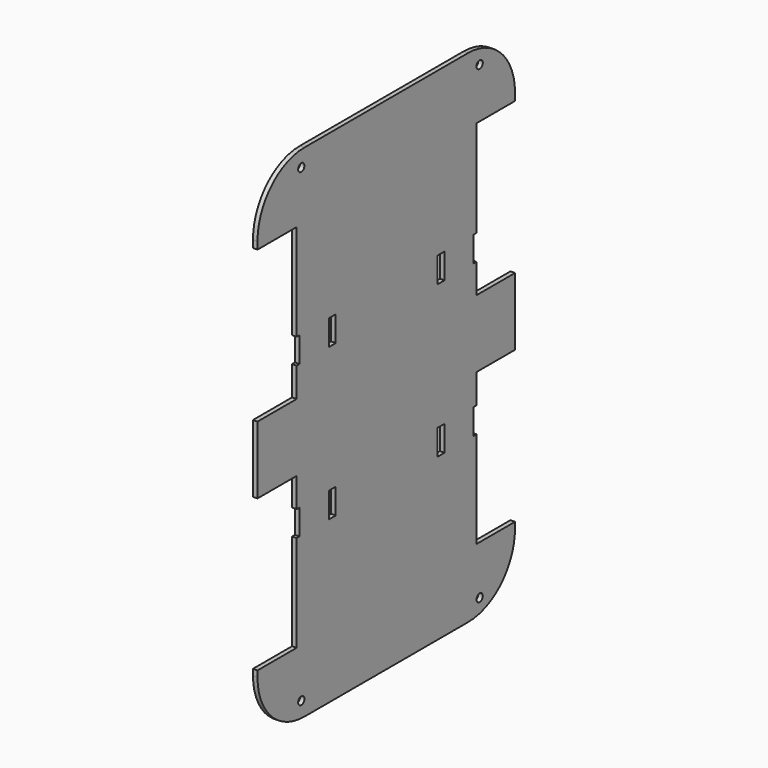
from build123d import *

# Parameters (mm, degrees)
CYLINDER002_R           = 2
CYLINDER002_DEPTH       = 10
CYLINDER002_PITCH_ANGLE = 90
CYLINDER003_R           = 2
CYLINDER003_DEPTH       = 10
CYLINDER003_PITCH_ANGLE = 90
CYLINDER001_R           = 2
CYLINDER001_DEPTH       = 10
CYLINDER001_PITCH_ANGLE = 90
CYLINDER_R              = 2
CYLINDER_DEPTH          = 10
CYLINDER_PITCH_ANGLE    = 90
BOX012_W                = 10
BOX012_H                = 4.3
BOX012_DEPTH            = 13
BOX011_W                = 10
BOX011_H                = 1.8
BOX011_DEPTH            = 13
BOX007_W                = 10
BOX007_H                = 1.8
BOX007_DEPTH            = 13
BOX009_W                = 10
BOX009_H                = 4.3
BOX009_DEPTH            = 13
BOX008_W                = 10
BOX008_H                = 4.3
BOX008_DEPTH            = 13
BOX010_W                = 10
BOX010_H                = 1.8
BOX010_DEPTH            = 13
BOX006_W                = 10
BOX006_H                = 4.3
BOX006_DEPTH            = 13
BOX005_W                = 10
BOX005_H                = 1.8
BOX005_DEPTH            = 13
BOX002_W                = 10
BOX002_H                = 25
BOX002_DEPTH            = 77.4
BOX004_W                = 10
BOX004_H                = 25
BOX004_DEPTH            = 77.4
BOX001_W                = 10
BOX001_H                = 25
BOX001_DEPTH            = 77.4
BOX003_W                = 10
BOX003_H                = 25
BOX003_DEPTH            = 77.4
BOX_W                   = 2.3
BOX_H                   = 164.6
BOX_DEPTH               = 256.2
FILLET_R                = 30
FILLET001_R             = 30
FILLET002_R             = 30
FILLET003_R             = 30


with BuildPart() as cilindro002:
    # Cylinder002 → Cylinder002 (new body)
    with BuildSketch(Plane.XY):
        Circle(CYLINDER002_R)
    extrude(amount=CYLINDER002_DEPTH)


with BuildPart() as cilindro002_1:
    # Cylinder002 pitch: moved
    add(cilindro002.part.rotate(Axis((0, 0, 0), (0, 1, 0)), CYLINDER002_PITCH_ANGLE))


with BuildPart() as cilindro002_2:
    # Cylinder002 placement: moved
    add(cilindro002_1.part.moved(Location((-2, 28, 248))))


with BuildPart() as cilindro003:
    # Cylinder003 → Cylinder003 (new body)
    with BuildSketch(Plane.XY):
        Circle(CYLINDER003_R)
    extrude(amount=CYLINDER003_DEPTH)


with BuildPart() as cilindro003_1:
    # Cylinder003 pitch: moved
    add(cilindro003.part.rotate(Axis((0, 0, 0), (0, 1, 0)), CYLINDER003_PITCH_ANGLE))


with BuildPart() as cilindro003_2:
    # Cylinder003 placement: moved
    add(cilindro003_1.part.moved(Location((-2, 142, 248))))


with BuildPart() as cilindro001:
    # Cylinder001 → Cylinder001 (new body)
    with BuildSketch(Plane.XY):
        Circle(CYLINDER001_R)
    extrude(amount=CYLINDER001_DEPTH)


with BuildPart() as cilindro001_1:
    # Cylinder001 pitch: moved
    add(cilindro001.part.rotate(Axis((0, 0, 0), (0, 1, 0)), CYLINDER001_PITCH_ANGLE))


with BuildPart() as cilindro001_2:
    # Cylinder001 placement: moved
    add(cilindro001_1.part.moved(Location((-1, 142, 8))))


with BuildPart() as cilindro:
    # Cylinder → Cylinder (new body)
    with BuildSketch(Plane.XY):
        Circle(CYLINDER_R)
    extrude(amount=CYLINDER_DEPTH)


with BuildPart() as cilindro_1:
    # Cylinder pitch: moved
    add(cilindro.part.rotate(Axis((0, 0, 0), (0, 1, 0)), CYLINDER_PITCH_ANGLE))


with BuildPart() as cilindro_2:
    # Cylinder placement: moved
    add(cilindro_1.part.moved(Location((-2, 28, 8))))


with BuildPart() as cubo012:
    # Box012 → Box012 (new body)
    with BuildSketch(Plane(origin=(-2, 115.2, 160), x_dir=(1, 0, 0), z_dir=(0, 0, 1))):
        with Locations((5, 2.15)):
            Rectangle(BOX012_W, BOX012_H)
    extrude(amount=BOX012_DEPTH)


with BuildPart() as cubo011:
    # Box011 → Box011 (new body)
    with BuildSketch(Plane(origin=(-2, 138.2, 160), x_dir=(1, 0, 0), z_dir=(0, 0, 1))):
        with Locations((5, 0.9)):
            Rectangle(BOX011_W, BOX011_H)
    extrude(amount=BOX011_DEPTH)


with BuildPart() as cubo007:
    # Box007 → Box007 (new body)
    with BuildSketch(Plane(origin=(-2, 138.2, 82.4), x_dir=(1, 0, 0), z_dir=(0, 0, 1))):
        with Locations((5, 0.9)):
            Rectangle(BOX007_W, BOX007_H)
    extrude(amount=BOX007_DEPTH)


with BuildPart() as cubo009:
    # Box009 → Box009 (new body)
    with BuildSketch(Plane(origin=(-2, 115.2, 82.4), x_dir=(1, 0, 0), z_dir=(0, 0, 1))):
        with Locations((5, 2.15)):
            Rectangle(BOX009_W, BOX009_H)
    extrude(amount=BOX009_DEPTH)


with BuildPart() as cubo008:
    # Box008 → Box008 (new body)
    with BuildSketch(Plane(origin=(0, 45.7, 160), x_dir=(1, 0, 0), z_dir=(0, 0, 1))):
        with Locations((5, 2.15)):
            Rectangle(BOX008_W, BOX008_H)
    extrude(amount=BOX008_DEPTH)


with BuildPart() as cubo010:
    # Box010 → Box010 (new body)
    with BuildSketch(Plane(origin=(-2, 25, 160), x_dir=(1, 0, 0), z_dir=(0, 0, 1))):
        with Locations((5, 0.9)):
            Rectangle(BOX010_W, BOX010_H)
    extrude(amount=BOX010_DEPTH)


with BuildPart() as cubo006:
    # Box006 → Box006 (new body)
    with BuildSketch(Plane(origin=(0, 45.7, 82.4), x_dir=(1, 0, 0), z_dir=(0, 0, 1))):
        with Locations((5, 2.15)):
            Rectangle(BOX006_W, BOX006_H)
    extrude(amount=BOX006_DEPTH)


with BuildPart() as cubo005:
    # Box005 → Box005 (new body)
    with BuildSketch(Plane(origin=(-2, 25, 82.4), x_dir=(1, 0, 0), z_dir=(0, 0, 1))):
        with Locations((5, 0.9)):
            Rectangle(BOX005_W, BOX005_H)
    extrude(amount=BOX005_DEPTH)


with BuildPart() as cubo002:
    # Box002 → Box002 (new body)
    with BuildSketch(Plane.XY.offset(145)):
        with Locations((5, 12.5)):
            Rectangle(BOX002_W, BOX002_H)
    extrude(amount=BOX002_DEPTH)


with BuildPart() as cubo004:
    # Box004 → Box004 (new body)
    with BuildSketch(Plane(origin=(0, 140, 145), x_dir=(1, 0, 0), z_dir=(0, 0, 1))):
        with Locations((5, 12.5)):
            Rectangle(BOX004_W, BOX004_H)
    extrude(amount=BOX004_DEPTH)


with BuildPart() as cubo001:
    # Box001 → Box001 (new body)
    with BuildSketch(Plane.XY.offset(33)):
        with Locations((5, 12.5)):
            Rectangle(BOX001_W, BOX001_H)
    extrude(amount=BOX001_DEPTH)


with BuildPart() as cubo003:
    # Box003 → Box003 (new body)
    with BuildSketch(Plane(origin=(0, 140, 33), x_dir=(1, 0, 0), z_dir=(0, 0, 1))):
        with Locations((5, 12.5)):
            Rectangle(BOX003_W, BOX003_H)
    extrude(amount=BOX003_DEPTH)


with BuildPart() as cut015:
    # Box → Box (new body)
    with BuildSketch(Plane.XY):
        with Locations((1.15, 82.3)):
            Rectangle(BOX_W, BOX_H)
    extrude(amount=BOX_DEPTH)

    # Cut: cut Cubo003
    add(cubo003.part, mode=Mode.SUBTRACT)

    # Cut001: cut Cubo001
    add(cubo001.part, mode=Mode.SUBTRACT)

    # Cut002: cut Cubo004
    add(cubo004.part, mode=Mode.SUBTRACT)

    # Cut003: cut Cubo002
    add(cubo002.part, mode=Mode.SUBTRACT)

    # Fillet
    fillet_edges = [cut015.edges().sort_by_distance(p)[0] for p in [
        (1.15, 0, 0),
    ]]
    fillet(fillet_edges, radius=FILLET_R)

    # Fillet001
    fillet001_edges = [cut015.edges().sort_by_distance(p)[0] for p in [
        (1.15, 164.6, 0),
    ]]
    fillet(fillet001_edges, radius=FILLET001_R)

    # Fillet002
    fillet002_edges = [cut015.edges().sort_by_distance(p)[0] for p in [
        (1.15, 164.6, 256.2),
    ]]
    fillet(fillet002_edges, radius=FILLET002_R)

    # Fillet003
    fillet003_edges = [cut015.edges().sort_by_distance(p)[0] for p in [
        (1.15, 0, 256.2),
    ]]
    fillet(fillet003_edges, radius=FILLET003_R)

    # Cut004: cut Cubo005
    add(cubo005.part, mode=Mode.SUBTRACT)

    # Cut005: cut Cubo006
    add(cubo006.part, mode=Mode.SUBTRACT)

    # Cut006: cut Cubo010
    add(cubo010.part, mode=Mode.SUBTRACT)

    # Cut007: cut Cubo008
    add(cubo008.part, mode=Mode.SUBTRACT)

    # Cut008: cut Cubo009
    add(cubo009.part, mode=Mode.SUBTRACT)

    # Cut009: cut Cubo007
    add(cubo007.part, mode=Mode.SUBTRACT)

    # Cut010: cut Cubo011
    add(cubo011.part, mode=Mode.SUBTRACT)

    # Cut011: cut Cubo012
    add(cubo012.part, mode=Mode.SUBTRACT)

    # Cut012: cut Cilindro
    add(cilindro_2.part, mode=Mode.SUBTRACT)

    # Cut013: cut Cilindro001
    add(cilindro001_2.part, mode=Mode.SUBTRACT)

    # Cut014: cut Cilindro003
    add(cilindro003_2.part, mode=Mode.SUBTRACT)

    # Cut015: cut Cilindro002
    add(cilindro002_2.part, mode=Mode.SUBTRACT)


solid = cut015.part
